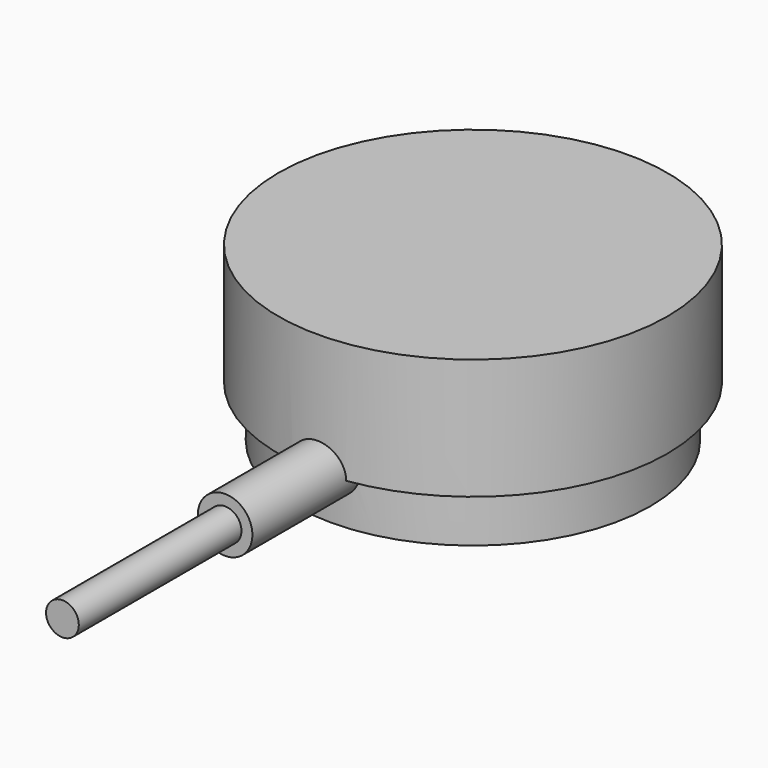
from build123d import *

# Parameters (mm, degrees)
F0_R      = 26
F1_DEPTH  = 7.6
F3_R      = 28.5
F4_DEPTH  = 17.7
F6_R      = 4
F7_DEPTH  = 45.4
F9_R      = 2.4
F10_DEPTH = 29.8


with BuildPart() as f1:
    # F0 (on Top) → F1 (new body)
    with BuildSketch(Plane.XY):
        Circle(F0_R)
    extrude(amount=-F1_DEPTH)

    # F3 (on offset) → F4 (join, through all)
    with BuildSketch(Plane.XY.offset(17.7)):
        Circle(F3_R)
    extrude(amount=-F4_DEPTH)

    # F6 (on Front) → F7 (join, through all)
    with BuildSketch(Plane.XZ):
        Circle(F6_R)
    extrude(amount=F7_DEPTH)

    # F9 (on face) → F10 (join, through all)
    with BuildSketch(Plane.XZ.offset(45.4)):
        Circle(F9_R)
    extrude(amount=F10_DEPTH)


solid = f1.part
